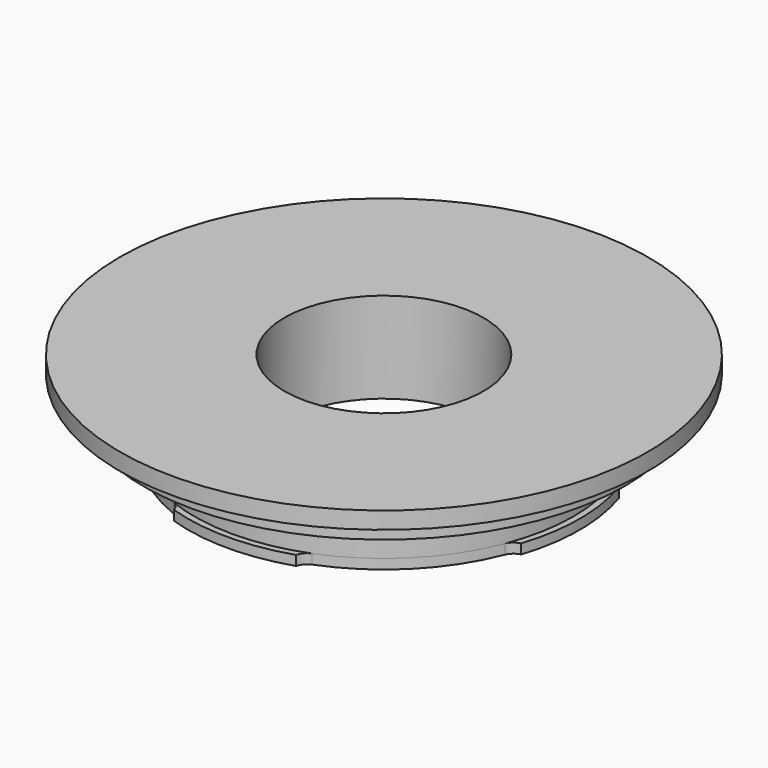
from build123d import *

# Parameters (mm, degrees)
POCKET_DEPTH    = 1.55
POCKET001_DEPTH = 1.55


with BuildPart() as part:
    # Sketch → Revolution (revolve)
    with BuildSketch(Plane.XZ):
        Polygon((-15.8, 14.4), (-15.8, 0), (-31.1, 0), (-31.1, 1.55), (-30.1, 1.55), (-30.1, 4.9), (-31.1, 4.9), (-31.1, 8.4), (-38.2, 8.4), (-38.2, 13.4), (-40.9, 13.4), (-40.9, 11.7), (-41.9, 11.7), (-41.9, 14.4), align=None)
    revolve(axis=Axis((0, 0, 0), (0, 0, 1)))

    # Sketch001 (on Face2 of Revolution) → Pocket (cut)
    with BuildSketch(Plane(origin=(0, 0, 0), x_dir=(1, 0, 0), z_dir=(0, 0, -1))):
        with BuildLine():
            ThreePointArc((9.7, 29.5486040279), (10.1713692462, 28.6315961358), (11, 28.0180299093))
            ThreePointArc((28.0180299093, 11), (21.2839141137, 21.2839141137), (11, 28.0180299093))
            ThreePointArc((28.0180299093, 11), (28.6315961358, 10.1713692462), (29.5486040279, 9.7))
            ThreePointArc((29.5486040279, 9.7), (21.9910208949, 21.9910208949), (9.7, 29.5486040279))
        make_face()
        with BuildLine():
            ThreePointArc((-11, 28.0180299093), (-21.2839141137, 21.2839141137), (-28.0180299093, 11))
            ThreePointArc((-29.5486040279, 9.7), (-28.6315961358, 10.1713692462), (-28.0180299093, 11))
            ThreePointArc((-9.7, 29.5486040279), (-21.9910208949, 21.9910208949), (-29.5486040279, 9.7))
            ThreePointArc((-11, 28.0180299093), (-10.1713692462, 28.6315961358), (-9.7, 29.5486040279))
        make_face()
        with BuildLine():
            ThreePointArc((-28.0180299093, -11), (-21.2839141137, -21.2839141137), (-11, -28.0180299093))
            ThreePointArc((-9.7, -29.5486040279), (-10.1713692462, -28.6315961358), (-11, -28.0180299093))
            ThreePointArc((-29.5486040279, -9.7), (-21.9910208949, -21.9910208949), (-9.7, -29.5486040279))
            ThreePointArc((-28.0180299093, -11), (-28.6315961358, -10.1713692462), (-29.5486040279, -9.7))
        make_face()
        with BuildLine():
            ThreePointArc((11, -28.0180299093), (21.2839141137, -21.2839141137), (28.0180299093, -11))
            ThreePointArc((29.5486040279, -9.7), (28.6315961358, -10.1713692462), (28.0180299093, -11))
            ThreePointArc((9.7, -29.5486040279), (21.9910208949, -21.9910208949), (29.5486040279, -9.7))
            ThreePointArc((11, -28.0180299093), (10.1713692462, -28.6315961358), (9.7, -29.5486040279))
        make_face()
    extrude(amount=-POCKET_DEPTH, mode=Mode.SUBTRACT)

    # Sketch002 (on Face29 of Pocket) → Pocket001 (cut)
    with BuildSketch(Plane(origin=(0, 0, 4.9), x_dir=(1, 0, 0), z_dir=(0, 0, -1))):
        with BuildLine():
            ThreePointArc((28.0180299093, 11), (21.2839141137, 21.2839141137), (11, 28.0180299093))
            ThreePointArc((9.7, 29.5486040279), (10.1713692462, 28.6315961358), (11, 28.0180299093))
            ThreePointArc((29.5486040279, 9.7), (21.9910208949, 21.9910208949), (9.7, 29.5486040279))
            ThreePointArc((28.0180299093, 11), (28.6315961358, 10.1713692462), (29.5486040279, 9.7))
        make_face()
        with BuildLine():
            ThreePointArc((30.9244240043, 3.3), (30.6342740961, 5.3620192655), (30.2067873168, 7.4))
            Line((30.2067873168, 7.4), (27.9728448464, 6.852733119))
            Line((28.6374087243, 3.0559485531), (27.9728448464, 6.852733119))
            Line((30.9244240043, 3.3), (28.6374087243, 3.0559485531))
        make_face()
        with BuildLine():
            ThreePointArc((29.5486040279, -9.7), (28.6321471593, -10.170901383), (28.0186040279, -10.9986731696))
            ThreePointArc((2.6, -29.9875471349), (18.0144126125, -24.1141850659), (28.0186040279, -10.9986731696))
            Line((2.6, -29.9875471349), (2, -31.0356246916))
            ThreePointArc((2, -31.0356246916), (19.0428680685, -24.5881917946), (29.5486040279, -9.7))
        make_face()
        with BuildLine():
            ThreePointArc((-9.7, -29.5486040279), (-10.1713692462, -28.6315961358), (-11, -28.0180299093))
            ThreePointArc((-28.0180299093, -11), (-21.2839141137, -21.2839141137), (-11, -28.0180299093))
            ThreePointArc((-28.0180299093, -11), (-28.6315961358, -10.1713692462), (-29.5486040279, -9.7))
            ThreePointArc((-29.5486040279, -9.7), (-21.9910208949, -21.9910208949), (-9.7, -29.5486040279))
        make_face()
        with BuildLine():
            ThreePointArc((-11, 28.0180299093), (-21.2839141137, 21.2839141137), (-28.0180299093, 11))
            ThreePointArc((-29.5486040279, 9.7), (-28.6315961358, 10.1713692462), (-28.0180299093, 11))
            ThreePointArc((-9.7, 29.5486040279), (-21.9910208949, 21.9910208949), (-29.5486040279, 9.7))
            ThreePointArc((-11, 28.0180299093), (-10.1713692462, 28.6315961358), (-9.7, 29.5486040279))
        make_face()
    extrude(amount=-POCKET001_DEPTH, mode=Mode.SUBTRACT)


solid = part.part
